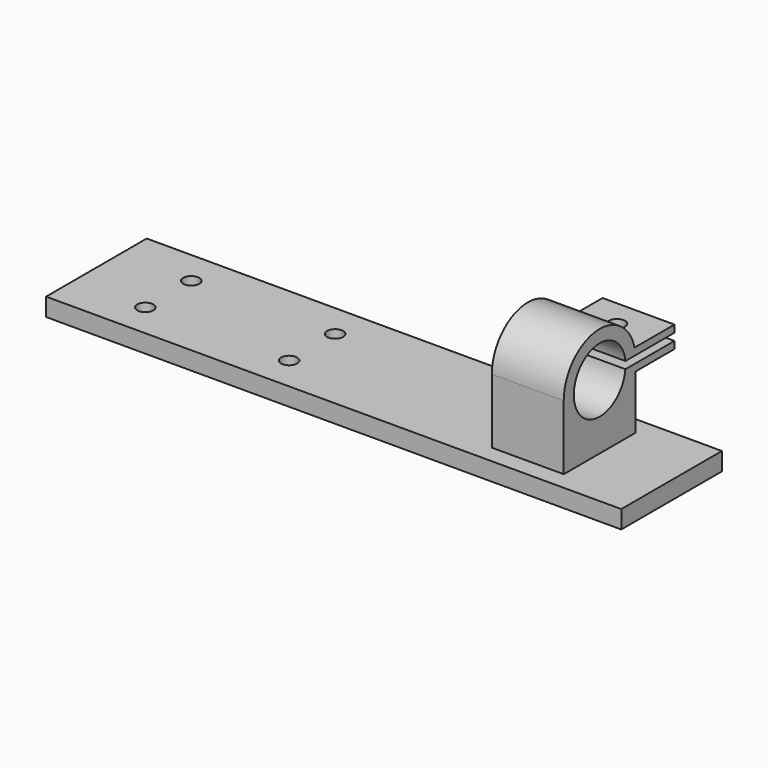
from build123d import *

# Parameters (mm, degrees)
F0_W      = 160
F0_H      = 35
F1_DEPTH  = 5
F3_D      = 4.5
F5_R      = 9
F6_DEPTH  = 20
F8_DEPTH  = 25
F9_W      = 15
F9_H      = 2
F10_DEPTH = 20
F12_D     = 4.5
F12_DEPTH = 12
F12_TIP   = 1.3519363928


with BuildPart() as f1:
    # F0 (on Top) → F1 (new body)
    with BuildSketch(Plane.XY):
        with Locations((80, 17.5)):
            Rectangle(F0_W, F0_H)
    extrude(amount=F1_DEPTH)

    # F3 (through all)
    with Locations(Plane(origin=(0, 0, 0), x_dir=(1, 0, 0), z_dir=(0, 0, -1))):
        with Locations((20, -9.5), (60, -9.5), (60, -25.5), (20, -25.5)):
            Hole(F3_D / 2)

    # F5 (on offset) → F6 (join)
    with BuildSketch(Plane.YZ.offset(120)):
        with BuildLine():
            Line((5, 23), (5, 5))
            Line((5, 5), (30, 5))
            Line((30, 5), (30, 23))
            ThreePointArc((30, 23), (17.5, 35.5), (5, 23))
        make_face()
        with Locations((17.5, 23)):
            Circle(F5_R, mode=Mode.SUBTRACT)
    extrude(amount=F6_DEPTH)

    # F7 (on face) → F8 (cut)
    with BuildSketch(Plane.YZ.offset(140)):
        with BuildLine():
            Line((29.9599357944, 24), (26.44427191, 24))
            ThreePointArc((26.44427191, 24), (26.4860571774, 23.5007758031), (26.5, 23))
            ThreePointArc((26.5, 23), (26.4860571774, 22.4992241969), (26.44427191, 22))
            Line((26.44427191, 22), (30, 22))
            Line((30, 22), (30, 23))
            ThreePointArc((30, 23), (29.9899799325, 23.5004011242), (29.9599357944, 24))
        make_face()
    extrude(amount=-F8_DEPTH, mode=Mode.SUBTRACT)

    # F9 (on offset) → F10 (join)
    with BuildSketch(Plane.YZ.offset(120)):
        with Locations((36, 21)):
            Rectangle(F9_W, F9_H)
        with Locations((36, 25)):
            Rectangle(F9_W, F9_H)
    extrude(amount=F10_DEPTH)

    # F12
    with Locations(Plane.XY.offset(26)):
        with Locations((130, 36)):
            Hole(F12_D / 2, depth=F12_DEPTH)
            with Locations((0, 0, -(F12_DEPTH + F12_TIP / 2))):  # 118° drill point
                Cone(0, F12_D / 2, F12_TIP, mode=Mode.SUBTRACT)


solid = f1.part
